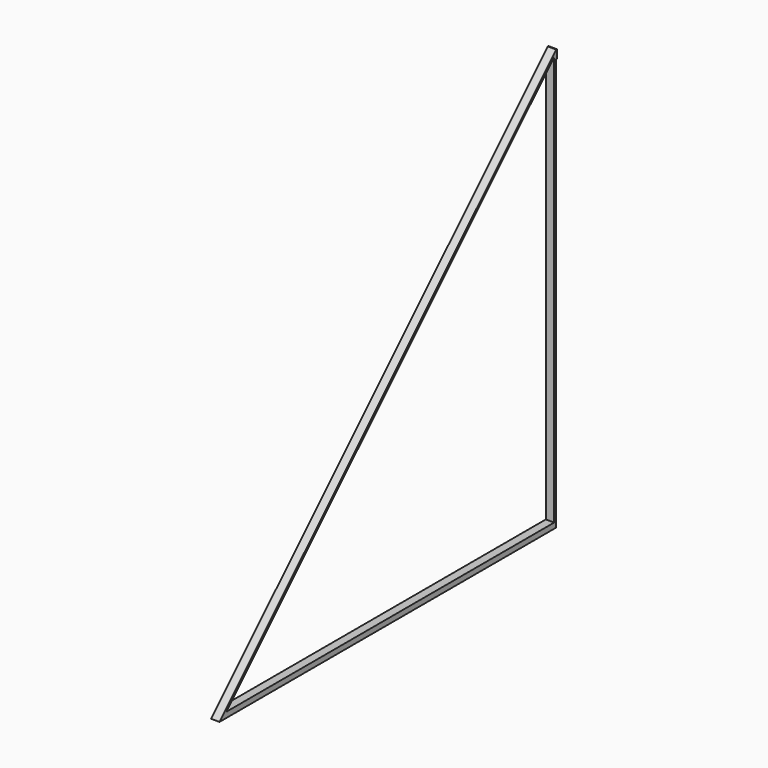
from build123d import *

# Parameters (mm, degrees)
F0_W     = 10
F0_H     = 500
F1_DEPTH = 500
F3_DEPTH = 10
F5_DEPTH = 10
F6_W     = 10
F6_H     = 10
F7_DEPTH = 1


with BuildPart() as f1:
    # F0 (on Top) → F1 (new body)
    with BuildSketch(Plane.XY):
        with Locations((-12.096023, 214.334732)):
            Rectangle(F0_W, F0_H)
    extrude(amount=F1_DEPTH)

    # F2 (on face) → F3 (cut)
    with BuildSketch(Plane(origin=(-17.096023, 0, 0), x_dir=(0, -1, 0), z_dir=(-1, 0, 0))):
        Polygon((35.665268, 500), (-464.334732, 500), (35.665268, 0), align=None)
    extrude(amount=-F3_DEPTH, mode=Mode.SUBTRACT)

    # F4 (on face) → F5 (cut)
    with BuildSketch(Plane.YZ.offset(-7.096023)):
        Polygon((461.334732, 493.5), (-25.665268, 6.5), (461.334732, 6.5), align=None)
    extrude(amount=-F5_DEPTH, mode=Mode.SUBTRACT)

    # F6 (on face) → F7 (join)
    with BuildSketch(Plane(origin=(0, 464.334732, 0), x_dir=(-1, 0, 0), z_dir=(0, 1, 0))):
        with Locations((12.096023, 495)):
            Rectangle(F6_W, F6_H)
    extrude(amount=F7_DEPTH)


solid = f1.part
